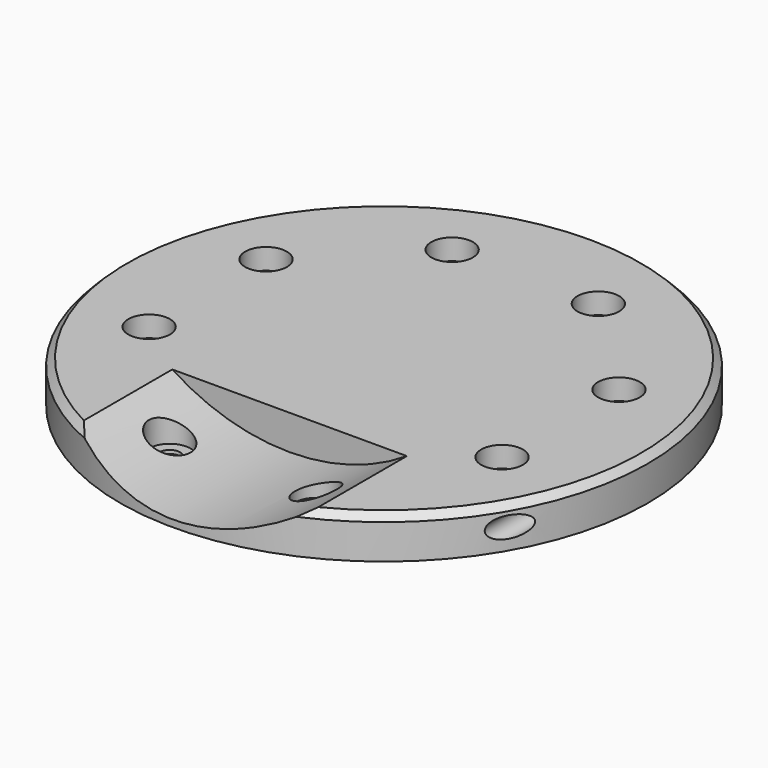
from build123d import *

# Parameters (mm, degrees)
CYLINDER2682_R               = 1.5
CYLINDER2682_DEPTH           = 60
CYLINDER2681_R               = 1.5
CYLINDER2681_DEPTH           = 60
TUBE120_R                    = 31
TUBE120_R_2                  = 22
TUBE120_DEPTH                = 24
CYLINDER2647_R               = 14
CYLINDER2647_DEPTH           = 5
CYLINDER2632_R               = 1.5
CYLINDER2632_DEPTH           = 20
CYLINDER2632_PLACEMENT_ANGLE = 45
CYLINDER2640_R               = 1.5
CYLINDER2640_DEPTH           = 20
CYLINDER2633_R               = 1.5
CYLINDER2633_DEPTH           = 20
CYLINDER2633_PLACEMENT_ANGLE = 135
CYLINDER2641_R               = 1.5
CYLINDER2641_DEPTH           = 20
CYLINDER2634_R               = 1.5
CYLINDER2634_DEPTH           = 20
CYLINDER2634_PLACEMENT_ANGLE = 225
CYLINDER2644_R               = 1.5
CYLINDER2644_DEPTH           = 20
CYLINDER2643_R               = 1.5
CYLINDER2643_DEPTH           = 20
CYLINDER2643_PLACEMENT_ANGLE = 45
CYLINDER2646_R               = 1.5
CYLINDER2646_DEPTH           = 20
CYLINDER2635_R               = 3
CYLINDER2635_DEPTH           = 3
CYLINDER2635_PLACEMENT_ANGLE = 45
CYLINDER2636_R               = 3
CYLINDER2636_DEPTH           = 3
CYLINDER2630_R               = 3
CYLINDER2630_DEPTH           = 3
CYLINDER2630_PLACEMENT_ANGLE = 135
CYLINDER2631_R               = 3
CYLINDER2631_DEPTH           = 5
CYLINDER2637_R               = 3
CYLINDER2637_DEPTH           = 5
CYLINDER2637_PLACEMENT_ANGLE = 225
CYLINDER2638_R               = 3
CYLINDER2638_DEPTH           = 3
CYLINDER2639_R               = 3
CYLINDER2639_DEPTH           = 3
CYLINDER2639_PLACEMENT_ANGLE = 45
CYLINDER2642_R               = 3
CYLINDER2642_DEPTH           = 3
CYLINDER2645_R               = 38
CYLINDER2645_DEPTH           = 6
CHAMFER126_SIZE              = 1
CHAMFER126_ROLL_ANGLE        = 180
CHAMFER126_PLACEMENT_ANGLE   = -157.5


with BuildPart() as obj1:
    # Cylinder2682 → Cylinder2682 (new body)
    with BuildSketch(Plane(origin=(33, -10, 8), x_dir=(1, 0, 0), z_dir=(0, -1, 0))):
        Circle(CYLINDER2682_R)
    extrude(amount=CYLINDER2682_DEPTH)


with BuildPart() as compound1193:
    # Cylinder2681 → Cylinder2681 (new body)
    with BuildSketch(Plane(origin=(-33, -10, 8), x_dir=(1, 0, 0), z_dir=(0, -1, 0))):
        Circle(CYLINDER2681_R)
    extrude(amount=CYLINDER2681_DEPTH)

    # Compound1193: union obj1
    add(obj1.part)


with BuildPart() as compound1193_1:
    # Compound1193 placement: moved
    add(compound1193.part.moved(Location((0, -1, 0))))


with BuildPart() as tube120:
    # Tube120 → Tube120 (new body)
    with BuildSketch(Plane(origin=(0, -17, 37), x_dir=(1, 0, 0), z_dir=(0, -1, 0))):
        Circle(TUBE120_R)
        Circle(TUBE120_R_2, mode=Mode.SUBTRACT)
    extrude(amount=TUBE120_DEPTH)


with BuildPart() as obj2:
    # Cylinder2647 → Cylinder2647 (new body)
    with BuildSketch(Plane.XY.offset(1)):
        Circle(CYLINDER2647_R)
    extrude(amount=CYLINDER2647_DEPTH)


with BuildPart() as obj3:
    # Cylinder2632 → Cylinder2632 (new body)
    with BuildSketch(Plane.XY):
        Circle(CYLINDER2632_R)
    extrude(amount=CYLINDER2632_DEPTH)


with BuildPart() as obj3_1:
    # Cylinder2632 placement: moved
    add(obj3.part.moved(Location((-19.445436, 19.445436, 19))).rotate(Axis((-19.445436, 19.445436, 19), (0, 0, 1)), CYLINDER2632_PLACEMENT_ANGLE))


with BuildPart() as obj4:
    # Cylinder2640 → Cylinder2640 (new body)
    with BuildSketch(Plane(origin=(-27.5, 0, 19), x_dir=(0, 1, 0), z_dir=(0, 0, 1))):
        Circle(CYLINDER2640_R)
    extrude(amount=CYLINDER2640_DEPTH)


with BuildPart() as obj5:
    # Cylinder2633 → Cylinder2633 (new body)
    with BuildSketch(Plane.XY):
        Circle(CYLINDER2633_R)
    extrude(amount=CYLINDER2633_DEPTH)


with BuildPart() as obj5_1:
    # Cylinder2633 placement: moved
    add(obj5.part.moved(Location((-19.445436, -19.445436, 19))).rotate(Axis((-19.445436, -19.445436, 19), (0, 0, 1)), CYLINDER2633_PLACEMENT_ANGLE))


with BuildPart() as obj6:
    # Cylinder2641 → Cylinder2641 (new body)
    with BuildSketch(Plane(origin=(0, -27.5, 19), x_dir=(-1, 0, 0), z_dir=(0, 0, 1))):
        Circle(CYLINDER2641_R)
    extrude(amount=CYLINDER2641_DEPTH)


with BuildPart() as obj7:
    # Cylinder2634 → Cylinder2634 (new body)
    with BuildSketch(Plane.XY):
        Circle(CYLINDER2634_R)
    extrude(amount=CYLINDER2634_DEPTH)


with BuildPart() as obj7_1:
    # Cylinder2634 placement: moved
    add(obj7.part.moved(Location((19.445436, -19.445436, 19))).rotate(Axis((19.445436, -19.445436, 19), (0, 0, 1)), CYLINDER2634_PLACEMENT_ANGLE))


with BuildPart() as obj8:
    # Cylinder2644 → Cylinder2644 (new body)
    with BuildSketch(Plane(origin=(27.5, 0, 19), x_dir=(0, -1, 0), z_dir=(0, 0, 1))):
        Circle(CYLINDER2644_R)
    extrude(amount=CYLINDER2644_DEPTH)


with BuildPart() as obj9:
    # Cylinder2643 → Cylinder2643 (new body)
    with BuildSketch(Plane.XY):
        Circle(CYLINDER2643_R)
    extrude(amount=CYLINDER2643_DEPTH)


with BuildPart() as obj9_1:
    # Cylinder2643 placement: moved
    add(obj9.part.moved(Location((19.445436, 19.445436, 19))).rotate(Axis((19.445436, 19.445436, 19), (0, 0, -1)), CYLINDER2643_PLACEMENT_ANGLE))


with BuildPart() as compound1169:
    # Cylinder2646 → Cylinder2646 (new body)
    with BuildSketch(Plane(origin=(0, 27.5, 19), x_dir=(1, 0, 0), z_dir=(0, 0, 1))):
        Circle(CYLINDER2646_R)
    extrude(amount=CYLINDER2646_DEPTH)

    # Compound1169: union obj3, obj4, obj5, obj6, obj7, obj8, obj9
    add(obj3_1.part)
    add(obj4.part)
    add(obj5_1.part)
    add(obj6.part)
    add(obj7_1.part)
    add(obj8.part)
    add(obj9_1.part)


with BuildPart() as compound1169_1:
    # Compound1169 placement: moved
    add(compound1169.part.moved(Location((0, 0, -23))))


with BuildPart() as obj10:
    # Cylinder2635 → Cylinder2635 (new body)
    with BuildSketch(Plane.XY):
        Circle(CYLINDER2635_R)
    extrude(amount=CYLINDER2635_DEPTH)


with BuildPart() as obj10_1:
    # Cylinder2635 placement: moved
    add(obj10.part.moved(Location((-19.45, 19.45, 19))).rotate(Axis((-19.45, 19.45, 19), (0, 0, 1)), CYLINDER2635_PLACEMENT_ANGLE))


with BuildPart() as obj11:
    # Cylinder2636 → Cylinder2636 (new body)
    with BuildSketch(Plane(origin=(-27.5, 0, 19), x_dir=(0, 1, 0), z_dir=(0, 0, 1))):
        Circle(CYLINDER2636_R)
    extrude(amount=CYLINDER2636_DEPTH)


with BuildPart() as obj12:
    # Cylinder2630 → Cylinder2630 (new body)
    with BuildSketch(Plane.XY):
        Circle(CYLINDER2630_R)
    extrude(amount=CYLINDER2630_DEPTH)


with BuildPart() as obj12_1:
    # Cylinder2630 placement: moved
    add(obj12.part.moved(Location((-19.445436, -19.445436, 19))).rotate(Axis((-19.445436, -19.445436, 19), (0, 0, 1)), CYLINDER2630_PLACEMENT_ANGLE))


with BuildPart() as obj13:
    # Cylinder2631 → Cylinder2631 (new body)
    with BuildSketch(Plane(origin=(0, -27.5, 19.5), x_dir=(-1, 0, 0), z_dir=(0, 0, 1))):
        Circle(CYLINDER2631_R)
    extrude(amount=CYLINDER2631_DEPTH)


with BuildPart() as obj14:
    # Cylinder2637 → Cylinder2637 (new body)
    with BuildSketch(Plane.XY):
        Circle(CYLINDER2637_R)
    extrude(amount=CYLINDER2637_DEPTH)


with BuildPart() as obj14_1:
    # Cylinder2637 placement: moved
    add(obj14.part.moved(Location((19.45, -19.45, 19.5))).rotate(Axis((19.45, -19.45, 19.5), (0, 0, 1)), CYLINDER2637_PLACEMENT_ANGLE))


with BuildPart() as obj15:
    # Cylinder2638 → Cylinder2638 (new body)
    with BuildSketch(Plane(origin=(27.5, 0, 19), x_dir=(0, -1, 0), z_dir=(0, 0, 1))):
        Circle(CYLINDER2638_R)
    extrude(amount=CYLINDER2638_DEPTH)


with BuildPart() as obj16:
    # Cylinder2639 → Cylinder2639 (new body)
    with BuildSketch(Plane.XY):
        Circle(CYLINDER2639_R)
    extrude(amount=CYLINDER2639_DEPTH)


with BuildPart() as obj16_1:
    # Cylinder2639 placement: moved
    add(obj16.part.moved(Location((19.445436, 19.445436, 19))).rotate(Axis((19.445436, 19.445436, 19), (0, 0, -1)), CYLINDER2639_PLACEMENT_ANGLE))


with BuildPart() as compound1170:
    # Cylinder2642 → Cylinder2642 (new body)
    with BuildSketch(Plane(origin=(0, 27.5, 19), x_dir=(1, 0, 0), z_dir=(0, 0, 1))):
        Circle(CYLINDER2642_R)
    extrude(amount=CYLINDER2642_DEPTH)

    # Compound1170: union obj10, obj11, obj12, obj13, obj14, obj15, obj16
    add(obj10_1.part)
    add(obj11.part)
    add(obj12_1.part)
    add(obj13.part)
    add(obj14_1.part)
    add(obj15.part)
    add(obj16_1.part)


with BuildPart() as compound1170_1:
    # Compound1170 placement: moved
    add(compound1170.part.moved(Location((0, 0, -19))))


with BuildPart() as cut1006:
    # Cylinder2645 → Cylinder2645 (new body)
    with BuildSketch(Plane.XY):
        Circle(CYLINDER2645_R)
    extrude(amount=CYLINDER2645_DEPTH)

    # Cut630: cut Compound1170
    add(compound1170_1.part, mode=Mode.SUBTRACT)

    # Cut628: cut Compound1169
    add(compound1169_1.part, mode=Mode.SUBTRACT)

    # Cut629: cut obj2
    add(obj2.part, mode=Mode.SUBTRACT)

    # Chamfer126
    chamfer126_edges = [cut1006.edges().sort_by_distance(p)[0] for p in [
        (-38, 0, 0),
    ]]
    chamfer(chamfer126_edges, length=CHAMFER126_SIZE)


with BuildPart() as cut1006_1:
    # Chamfer126 roll: moved
    add(cut1006.part.rotate(Axis((0, 0, 0), (1, 0, 0)), CHAMFER126_ROLL_ANGLE))


with BuildPart() as cut1006_2:
    # Chamfer126 placement: moved
    add(cut1006_1.part.moved(Location((0, 0, 11))).rotate(Axis((0, 0, 11), (0, 0, 1)), CHAMFER126_PLACEMENT_ANGLE))

    # Cut976: cut Tube120
    add(tube120.part, mode=Mode.SUBTRACT)

    # Cut1006: cut Compound1193
    add(compound1193_1.part, mode=Mode.SUBTRACT)


solid = cut1006_2.part
